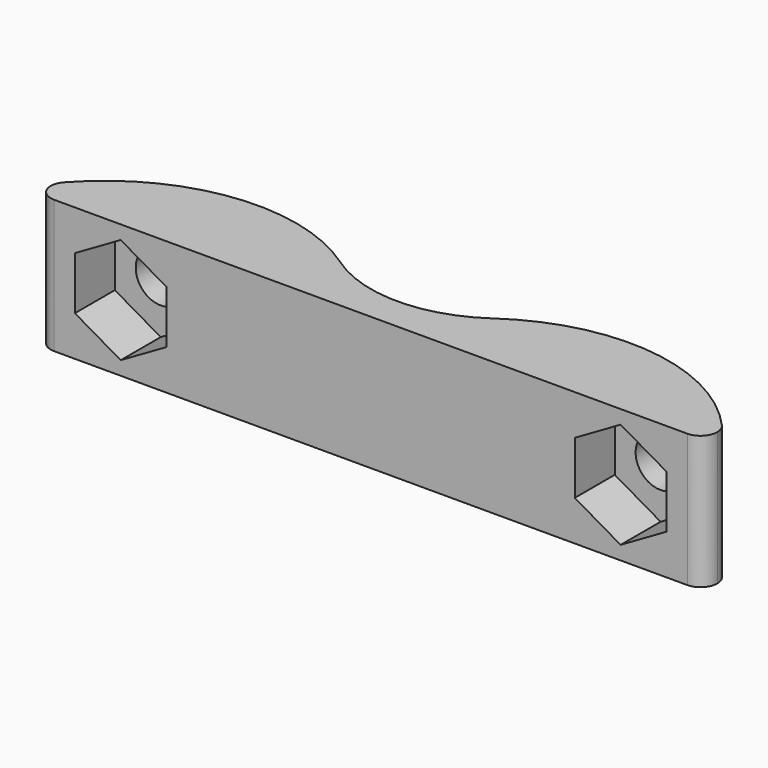
from build123d import *

# Parameters (mm, degrees)
F1_DEPTH = 8
F2_R     = 1.5
F3_DEPTH = 25
F5_DEPTH = 3


with BuildPart() as f1:
    # F0 (on Top) → F1 (new body)
    with BuildSketch(Plane.XY):
        with BuildLine():
            ThreePointArc((-1.3455948979, -5), (-2.7842223612, -3.1118759439), (-4.5798539423, -1.5593397432))
            ThreePointArc((-4.5798539423, -1.5593397432), (-12.5002387345, 0.4336426528), (-19.7463435047, -3.3344390538))
            ThreePointArc((-19.7463435047, -3.3344390538), (-18.6438704622, -3.0655634038), (-18, -4))
            ThreePointArc((-18, -4), (-18.2928932188, -4.7071067812), (-19, -5))
            Line((-19, -5), (-1.3455948979, -5))
        make_face()
        with BuildLine():
            ThreePointArc((-18, -4), (-18.6438704622, -3.0655634038), (-19.7463435047, -3.3344390538))
            ThreePointArc((-19.7463435047, -3.3344390538), (-19.9344365962, -3.6438704622), (-20, -4))
            ThreePointArc((-20, -4), (-19.7071067812, -4.7071067812), (-19, -5))
            ThreePointArc((-19, -5), (-18.2928932188, -4.7071067812), (-18, -4))
        make_face()
        with BuildLine():
            ThreePointArc((1.3455948979, -5), (2.7842223453, -3.1118759608), (4.5798539043, -1.5593397698))
            ThreePointArc((4.5798539043, -1.5593397698), (-2.32e-08, -3), (-4.5798539423, -1.5593397432))
            ThreePointArc((-4.5798539423, -1.5593397432), (-2.7842223612, -3.1118759439), (-1.3455948979, -5))
            Line((-1.3455948979, -5), (1.3455948979, -5))
        make_face()
        with BuildLine():
            ThreePointArc((19.7463434531, -3.3344389961), (12.5002386731, 0.43364266), (4.5798539043, -1.5593397698))
            ThreePointArc((4.5798539043, -1.5593397698), (2.7842223453, -3.1118759608), (1.3455948979, -5))
            Line((1.3455948979, -5), (19, -5))
            ThreePointArc((19, -5), (18.0874319193, -3.5910751927), (19.7463434531, -3.3344389961))
        make_face()
        with BuildLine():
            ThreePointArc((19, -5), (19.7071067812, -4.7071067812), (20, -4))
            ThreePointArc((20, -4), (19.9344365824, -3.6438704261), (19.7463434531, -3.3344389961))
            ThreePointArc((19.7463434531, -3.3344389961), (18.0874319193, -3.5910751927), (19, -5))
        make_face()
    extrude(amount=F1_DEPTH)

    # F2 (on face) → F3 (cut)
    with BuildSketch(Plane.XZ.offset(5)):
        with Locations((-15, 4)):
            Circle(F2_R)
        with Locations((15, 4)):
            Circle(F2_R)
    extrude(amount=-F3_DEPTH, mode=Mode.SUBTRACT)

    # F4 (on face) → F5 (cut)
    with BuildSketch(Plane.XZ.offset(5)):
        Polygon((-12.25, 2.4122867597), (-12.25, 5.5877132403), (-15, 7.1754264805), (-17.75, 5.5877132403), (-17.75, 2.4122867597), (-15, 0.8245735195), align=None)
        Polygon((12.25, 5.5877132403), (12.25, 2.4122867597), (15, 0.8245735195), (17.75, 2.4122867597), (17.75, 5.5877132403), (15, 7.1754264805), align=None)
    extrude(amount=-F5_DEPTH, mode=Mode.SUBTRACT)


solid = f1.part
